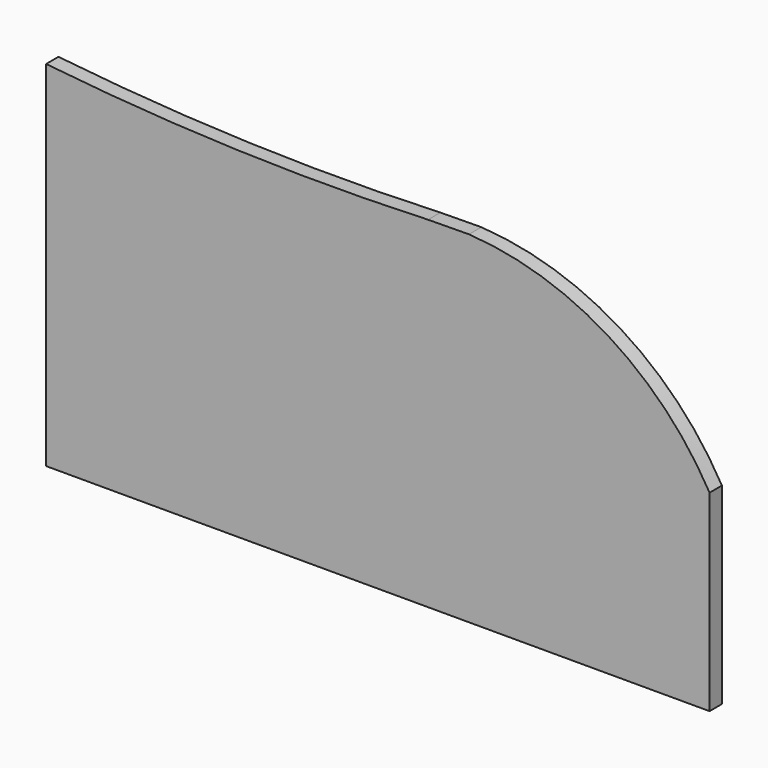
from build123d import *

# Parameters (mm, degrees)
F1_DEPTH = 100


with BuildPart() as f1:
    # F0 (on Front) → F1 (new body)
    with BuildSketch(Plane.XZ):
        with BuildLine():
            Line((2087.174447, -1293.470921), (2087.174447, -48.651523))
            ThreePointArc((2087.174447, -48.651523), (1430.985228, 631.292682), (530.274876, 917.001057))
            Line((530.274876, 917.001057), (265.363508, 914.065681))
            ThreePointArc((265.363508, 914.065681), (-972.040068, 909.698779), (-2206.333987, 997.478064))
            Line((-2206.333987, 997.478064), (-2206.333987, -1293.470921))
            Line((-2206.333987, -1293.470921), (2087.174447, -1293.470921))
        make_face()
    extrude(amount=F1_DEPTH)


solid = f1.part
